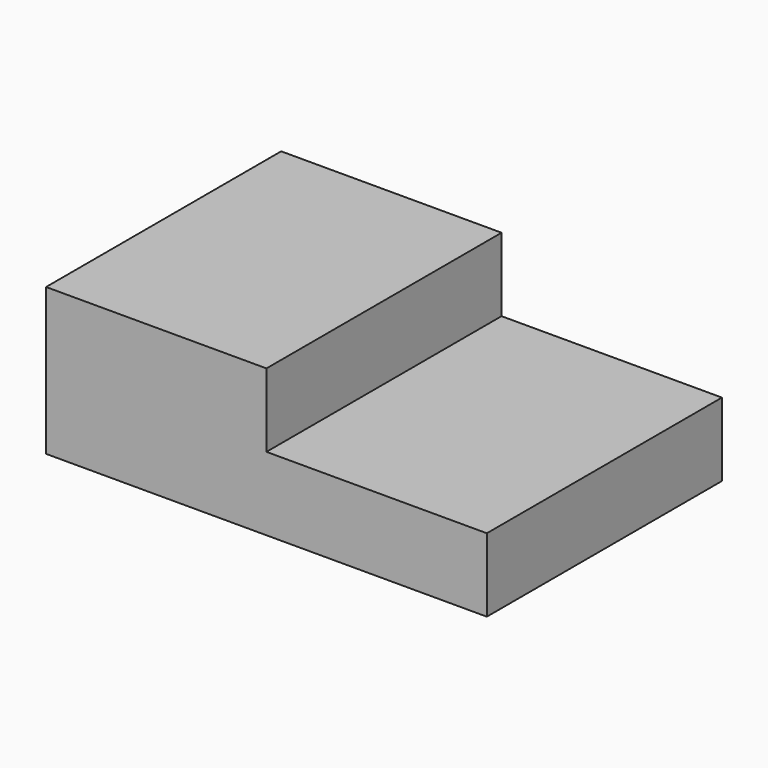
from build123d import *

# Parameters (mm, degrees)
F1_DEPTH = 25.4
F2_DEPTH = 76.2


with BuildPart() as f1:
    # F0 (on Front) → F1 (new body)
    with BuildSketch(Plane.XZ):
        Polygon((10.218344, 50.8), (-65.981656, 50.8), (-65.981656, 0), (86.418344, 0), (86.418344, 25.4), (10.218344, 25.4), align=None)
    extrude(amount=F1_DEPTH)

    # F1_face (on face) → F2 (join)
    with BuildSketch(Plane(origin=(-2.481656, -25.4, 21.166667), x_dir=(1, 0, 0), z_dir=(0, -1, 0))):
        Polygon((12.7, 29.633333), (-63.5, 29.633333), (-63.5, -21.166667), (88.9, -21.166667), (88.9, 4.233333), (12.7, 4.233333), align=None)
    extrude(amount=F2_DEPTH)


solid = f1.part
